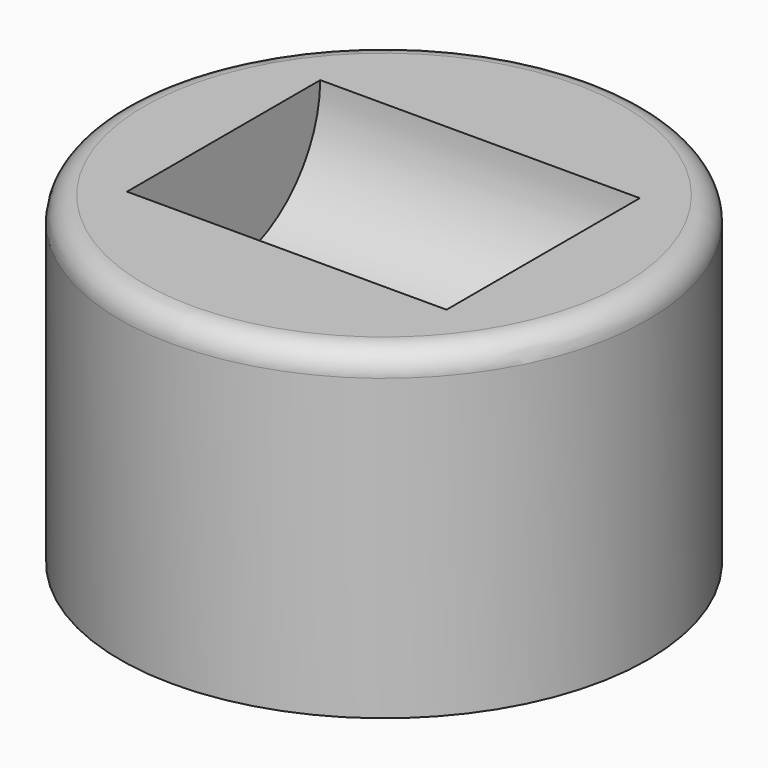
from build123d import *

# Parameters (mm, degrees)
F0_R     = 56.020962
F1_DEPTH = 68.58
F4_DEPTH = 67.818
F5_R     = 5.08


with BuildPart() as f1:
    # F0 (on Top) → F1 (new body)
    with BuildSketch(Plane.XY):
        Circle(F0_R)
    extrude(amount=F1_DEPTH)

    # F3 (on offset) → F4 (cut)
    with BuildSketch(Plane.YZ.offset(33.782)):
        with BuildLine():
            ThreePointArc((0, 43.215101), (18.128478, 50.724162), (25.63754, 68.852641))
            ThreePointArc((25.63754, 68.852641), (-18.128478, 86.981119), (0, 43.215101))
        make_face()
    extrude(amount=-F4_DEPTH, mode=Mode.SUBTRACT)

    # F5
    f5_edges = [f1.edges().sort_by_distance(p)[0] for p in [
        (-56.020962, 0, 68.58),
    ]]
    fillet(f5_edges, radius=F5_R)


solid = f1.part
